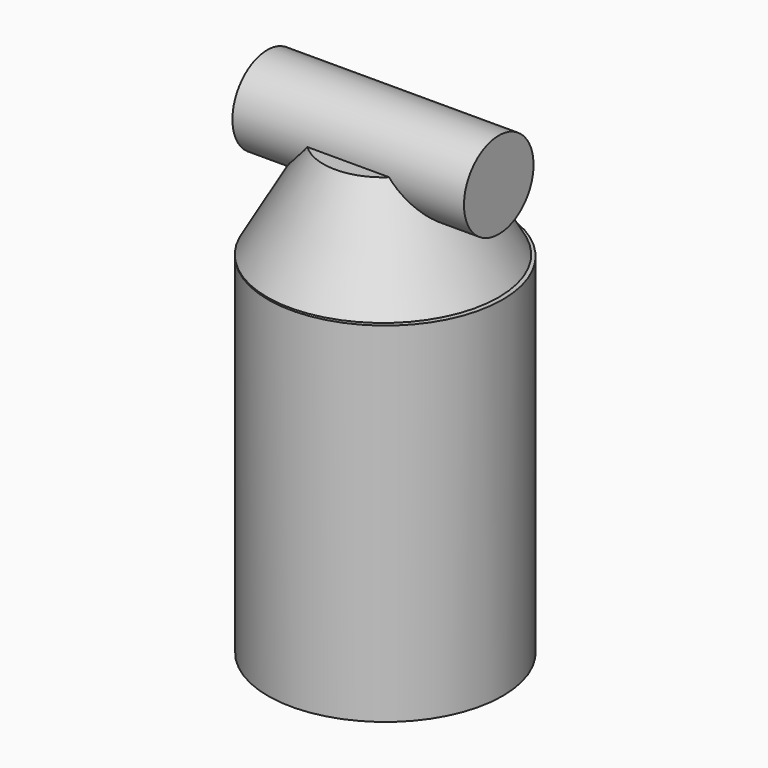
from build123d import *

# Parameters (mm, degrees)
CYLINDER_R           = 17.399
CYLINDER_DEPTH       = 92.71
CYLINDER_PITCH_ANGLE = 90
CYLINDER001_R        = 46.99
CYLINDER001_DEPTH    = 139.7


with BuildPart() as cone:
    # Cone → Cone (revolve)
    with BuildSketch(Plane.XZ):
        Polygon((0, 0), (46.355, 0), (23.876, 39.624), (0, 39.624), align=None)
    revolve(axis=Axis((0, 0, 0), (0, 0, 1)))


with BuildPart() as cylinder:
    # Cylinder → Cylinder (new body)
    with BuildSketch(Plane.XY):
        Circle(CYLINDER_R)
    extrude(amount=CYLINDER_DEPTH)


with BuildPart() as cylinder_1:
    # Cylinder pitch: moved
    add(cylinder.part.rotate(Axis((0, 0, 0), (0, 1, 0)), CYLINDER_PITCH_ANGLE))


with BuildPart() as cylinder_2:
    # Cylinder placement: moved
    add(cylinder_1.part.moved(Location((-46.355, 0, 39.624))))


with BuildPart() as cylinder001:
    # Cylinder001 → Cylinder001 (new body)
    with BuildSketch(Plane(origin=(0.80928, 0.17202, -140.112512), x_dir=(1, 0, 0), z_dir=(0, 0, 1))):
        Circle(CYLINDER001_R)
    extrude(amount=CYLINDER001_DEPTH)


solid = Compound([cone.part, cylinder_2.part, cylinder001.part])
